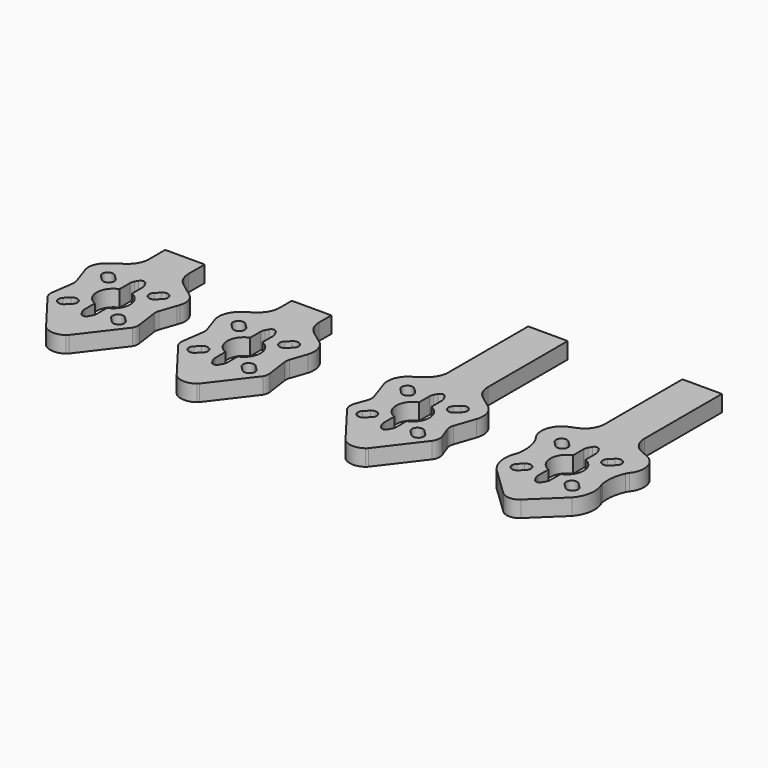
from build123d import *

# Parameters (mm, degrees)
F1_DEPTH = 4


with BuildPart() as f1:
    # F0 (on Top) → F1 (new body)
    with BuildSketch(Plane.XY):
        with BuildLine():
            Line((64.882556, 68.818186), (55.214634, 68.818186))
            Line((55.214634, 68.818186), (55.214634, 45.121402))
            ThreePointArc((55.214634, 45.121402), (54.672991, 42.857986), (53.165413, 41.084955))
            ThreePointArc((53.165413, 41.084955), (51.966639, 40.473517), (50.718245, 39.971096))
            ThreePointArc((50.718245, 39.971096), (47.681562, 36.650176), (48.588941, 32.242613))
            ThreePointArc((48.588941, 32.242613), (48.814657, 31.920656), (48.997803, 31.572718))
            ThreePointArc((48.997803, 31.572718), (49.841079, 28.617078), (49.815432, 25.5436))
            ThreePointArc((49.815432, 25.5436), (49.64528, 24.943847), (49.41752, 24.363519))
            ThreePointArc((49.41752, 24.363519), (49.229677, 20.721931), (50.841472, 17.451066))
            Line((50.841472, 17.451066), (57.888237, 10.705132))
            ThreePointArc((57.888237, 10.705132), (60.048595, 9.837757), (62.208953, 10.705132))
            Line((62.208953, 10.705132), (69.255718, 17.451066))
            ThreePointArc((69.255718, 17.451066), (70.867513, 20.721931), (70.67967, 24.363519))
            ThreePointArc((70.67967, 24.363519), (70.45191, 24.943847), (70.281758, 25.5436))
            ThreePointArc((70.281758, 25.5436), (70.256111, 28.617078), (71.099387, 31.572718))
            ThreePointArc((71.099387, 31.572718), (71.282533, 31.920656), (71.508249, 32.242613))
            ThreePointArc((71.508249, 32.242613), (72.415628, 36.650176), (69.378945, 39.971096))
            ThreePointArc((69.378945, 39.971096), (68.130551, 40.473517), (66.931777, 41.084955))
            ThreePointArc((66.931777, 41.084955), (65.424199, 42.857986), (64.882556, 45.121402))
            Line((64.882556, 45.121402), (64.882556, 68.818186))
        make_face()
        with BuildLine():
            ThreePointArc((53.437147, 22.777158), (55.346335, 22.777158), (55.346335, 20.867969))
            Line((55.346335, 20.867969), (54.285675, 19.807309))
            ThreePointArc((54.285675, 19.807309), (52.376486, 19.807309), (52.376486, 21.716498))
            Line((52.376486, 21.716498), (53.437147, 22.777158))
        make_face(mode=Mode.SUBTRACT)
        with BuildLine():
            Line((65.811515, 19.807309), (64.750855, 20.867969))
            ThreePointArc((64.750855, 20.867969), (64.750855, 22.777158), (66.660043, 22.777158))
            Line((66.660043, 22.777158), (67.720704, 21.716498))
            ThreePointArc((67.720704, 21.716498), (67.720704, 19.807309), (65.811515, 19.807309))
        make_face(mode=Mode.SUBTRACT)
        with BuildLine():
            Line((61.548595, 23.693295), (61.548595, 20.497))
            ThreePointArc((61.548595, 20.497), (61.484809, 19.995925), (61.297519, 19.526812))
            Line((61.297519, 19.526812), (60.860538, 18.739082))
            ThreePointArc((60.860538, 18.739082), (60.048595, 18.260989), (59.236652, 18.739082))
            Line((59.236652, 18.739082), (58.799671, 19.526812))
            ThreePointArc((58.799671, 19.526812), (58.612381, 19.995925), (58.548595, 20.497))
            Line((58.548595, 20.497), (58.548595, 23.693295))
            ThreePointArc((58.548595, 23.693295), (55.97616, 27.479418), (58.548595, 31.265541))
            Line((58.548595, 31.265541), (58.548595, 34.461836))
            ThreePointArc((58.548595, 34.461836), (58.612381, 34.962911), (58.799671, 35.432024))
            Line((58.799671, 35.432024), (59.236652, 36.219754))
            ThreePointArc((59.236652, 36.219754), (60.048595, 36.697847), (60.860538, 36.219754))
            Line((60.860538, 36.219754), (61.297519, 35.432024))
            ThreePointArc((61.297519, 35.432024), (61.484809, 34.962911), (61.548595, 34.461836))
            Line((61.548595, 34.461836), (61.548595, 31.265541))
            ThreePointArc((61.548595, 31.265541), (64.12103, 27.479418), (61.548595, 23.693295))
        make_face(mode=Mode.SUBTRACT)
        with BuildLine():
            ThreePointArc((55.346335, 34.090866), (55.346335, 32.181678), (53.437147, 32.181678))
            Line((53.437147, 32.181678), (52.376486, 33.242338))
            ThreePointArc((52.376486, 33.242338), (52.376486, 35.151526), (54.285675, 35.151526))
            Line((54.285675, 35.151526), (55.346335, 34.090866))
        make_face(mode=Mode.SUBTRACT)
        with BuildLine():
            Line((67.619782, 33.242338), (66.559122, 32.181678))
            ThreePointArc((66.559122, 32.181678), (64.649934, 32.181678), (64.649934, 34.090866))
            Line((64.649934, 34.090866), (65.710594, 35.151526))
            ThreePointArc((65.710594, 35.151526), (67.619782, 35.151526), (67.619782, 33.242338))
        make_face(mode=Mode.SUBTRACT)
        with BuildLine():
            Line((28.204229, 67.509641), (18.536308, 67.509641))
            Line((18.536308, 67.509641), (18.536308, 43.812858))
            Line((18.536308, 43.812858), (18.536308, 43.072832))
            ThreePointArc((18.536308, 43.072832), (17.995472, 40.811006), (16.489965, 39.038491))
            Line((16.489965, 39.038491), (13.236373, 36.656443))
            ThreePointArc((13.236373, 36.656443), (11.839998, 34.229705), (11.967076, 31.432783))
            Line((11.967076, 31.432783), (13.646707, 26.515925))
            ThreePointArc((13.646707, 26.515925), (13.807607, 25.513782), (13.625134, 24.515342))
            Line((13.625134, 24.515342), (12.626619, 21.786198))
            ThreePointArc((12.626619, 21.786198), (12.470211, 20.359497), (12.994444, 19.023413))
            Line((12.994444, 19.023413), (14.391236, 17.191841))
            Line((14.391236, 17.191841), (20.55758, 9.106092))
            ThreePointArc((20.55758, 9.106092), (20.742354, 8.896065), (20.954624, 8.713873))
            ThreePointArc((20.954624, 8.713873), (23.370269, 7.914289), (25.785913, 8.713873))
            ThreePointArc((25.785913, 8.713873), (25.998184, 8.896065), (26.182957, 9.106092))
            Line((26.182957, 9.106092), (33.746093, 19.023413))
            ThreePointArc((33.746093, 19.023413), (34.270326, 20.359497), (34.113918, 21.786198))
            Line((34.113918, 21.786198), (33.115403, 24.515342))
            ThreePointArc((33.115403, 24.515342), (32.93293, 25.513782), (33.09383, 26.515925))
            Line((33.09383, 26.515925), (34.773461, 31.432783))
            ThreePointArc((34.773461, 31.432783), (34.90054, 34.229705), (33.504164, 36.656443))
            Line((33.504164, 36.656443), (30.250572, 39.038491))
            ThreePointArc((30.250572, 39.038491), (28.745065, 40.811006), (28.204229, 43.072832))
            Line((28.204229, 43.072832), (28.204229, 43.812858))
            Line((28.204229, 43.812858), (28.204229, 67.509641))
        make_face()
        with BuildLine():
            ThreePointArc((16.75882, 21.468613), (18.668009, 21.468613), (18.668009, 19.559425))
            Line((18.668009, 19.559425), (17.607348, 18.498765))
            ThreePointArc((17.607348, 18.498765), (15.69816, 18.498765), (15.69816, 20.407953))
            Line((15.69816, 20.407953), (16.75882, 21.468613))
        make_face(mode=Mode.SUBTRACT)
        with BuildLine():
            Line((29.133189, 18.498765), (28.072529, 19.559425))
            ThreePointArc((28.072529, 19.559425), (28.072529, 21.468613), (29.981717, 21.468613))
            Line((29.981717, 21.468613), (31.042377, 20.407953))
            ThreePointArc((31.042377, 20.407953), (31.042377, 18.498765), (29.133189, 18.498765))
        make_face(mode=Mode.SUBTRACT)
        with BuildLine():
            Line((24.870269, 22.38475), (24.870269, 19.188456))
            ThreePointArc((24.870269, 19.188456), (24.806482, 18.687381), (24.619192, 18.218267))
            Line((24.619192, 18.218267), (24.182212, 17.430538))
            ThreePointArc((24.182212, 17.430538), (23.370269, 16.952445), (22.558326, 17.430538))
            Line((22.558326, 17.430538), (22.121345, 18.218267))
            ThreePointArc((22.121345, 18.218267), (21.934055, 18.687381), (21.870269, 19.188456))
            Line((21.870269, 19.188456), (21.870269, 22.38475))
            ThreePointArc((21.870269, 22.38475), (19.297833, 26.170874), (21.870269, 29.956997))
            Line((21.870269, 29.956997), (21.870269, 33.153291))
            ThreePointArc((21.870269, 33.153291), (21.934055, 33.654366), (22.121345, 34.12348))
            Line((22.121345, 34.12348), (22.558326, 34.911209))
            ThreePointArc((22.558326, 34.911209), (23.370269, 35.389302), (24.182212, 34.911209))
            Line((24.182212, 34.911209), (24.619192, 34.12348))
            ThreePointArc((24.619192, 34.12348), (24.806482, 33.654366), (24.870269, 33.153291))
            Line((24.870269, 33.153291), (24.870269, 29.956997))
            ThreePointArc((24.870269, 29.956997), (27.442704, 26.170874), (24.870269, 22.38475))
        make_face(mode=Mode.SUBTRACT)
        with BuildLine():
            ThreePointArc((18.668009, 32.782322), (18.668009, 30.873134), (16.75882, 30.873134))
            Line((16.75882, 30.873134), (15.69816, 31.933794))
            ThreePointArc((15.69816, 31.933794), (15.69816, 33.842982), (17.607348, 33.842982))
            Line((17.607348, 33.842982), (18.668009, 32.782322))
        make_face(mode=Mode.SUBTRACT)
        with BuildLine():
            Line((30.941456, 31.933794), (29.880796, 30.873134))
            ThreePointArc((29.880796, 30.873134), (27.971607, 30.873134), (27.971607, 32.782322))
            Line((27.971607, 32.782322), (29.032268, 33.842982))
            ThreePointArc((29.032268, 33.842982), (30.941456, 33.842982), (30.941456, 31.933794))
        make_face(mode=Mode.SUBTRACT)
        with BuildLine():
            ThreePointArc((-8.590589, 26.868947), (-8.60599, 27.569492), (-8.458463, 28.254501))
            Line((-8.458463, 28.254501), (-7.122784, 32.164492))
            ThreePointArc((-7.122784, 32.164492), (-6.995706, 34.961414), (-8.392081, 37.388152))
            Line((-8.392081, 37.388152), (-11.645673, 39.7702))
            ThreePointArc((-11.645673, 39.7702), (-13.15118, 41.542715), (-13.692016, 43.804541))
            Line((-13.692016, 43.804541), (-13.692016, 44.544566))
            Line((-13.692016, 44.544566), (-13.692016, 47.580231))
            Line((-13.692016, 47.580231), (-23.359937, 47.580231))
            Line((-23.359937, 47.580231), (-23.359937, 44.544566))
            Line((-23.359937, 44.544566), (-23.359937, 43.804541))
            ThreePointArc((-23.359937, 43.804541), (-23.900773, 41.542715), (-25.40628, 39.7702))
            Line((-25.40628, 39.7702), (-28.659872, 37.388152))
            ThreePointArc((-28.659872, 37.388152), (-30.056248, 34.961414), (-29.929169, 32.164492))
            Line((-29.929169, 32.164492), (-28.593491, 28.254501))
            ThreePointArc((-28.593491, 28.254501), (-28.445964, 27.569492), (-28.461365, 26.868947))
            Line((-28.461365, 26.868947), (-29.20631, 21.545488))
            ThreePointArc((-29.20631, 21.545488), (-29.192786, 20.62671), (-28.901801, 19.755122))
            Line((-28.901801, 19.755122), (-27.50501, 17.92355))
            Line((-27.50501, 17.92355), (-21.338665, 9.837801))
            ThreePointArc((-21.338665, 9.837801), (-21.153892, 9.627774), (-20.941622, 9.445582))
            ThreePointArc((-20.941622, 9.445582), (-18.525977, 8.645998), (-16.110332, 9.445582))
            ThreePointArc((-16.110332, 9.445582), (-15.898062, 9.627774), (-15.713288, 9.837801))
            Line((-15.713288, 9.837801), (-8.150152, 19.755122))
            ThreePointArc((-8.150152, 19.755122), (-7.859168, 20.62671), (-7.845644, 21.545488))
            Line((-7.845644, 21.545488), (-8.590589, 26.868947))
        make_face()
        with BuildLine():
            ThreePointArc((-25.137425, 22.200322), (-23.228237, 22.200322), (-23.228237, 20.291134))
            Line((-23.228237, 20.291134), (-24.288897, 19.230474))
            ThreePointArc((-24.288897, 19.230474), (-26.198085, 19.230474), (-26.198085, 21.139662))
            Line((-26.198085, 21.139662), (-25.137425, 22.200322))
        make_face(mode=Mode.SUBTRACT)
        with BuildLine():
            Line((-12.763057, 19.230474), (-13.823717, 20.291134))
            ThreePointArc((-13.823717, 20.291134), (-13.823717, 22.200322), (-11.914528, 22.200322))
            Line((-11.914528, 22.200322), (-10.853868, 21.139662))
            ThreePointArc((-10.853868, 21.139662), (-10.853868, 19.230474), (-12.763057, 19.230474))
        make_face(mode=Mode.SUBTRACT)
        with BuildLine():
            Line((-17.025977, 23.116459), (-17.025977, 19.920165))
            ThreePointArc((-17.025977, 19.920165), (-17.089763, 19.41909), (-17.277053, 18.949976))
            Line((-17.277053, 18.949976), (-17.714034, 18.162247))
            ThreePointArc((-17.714034, 18.162247), (-18.525977, 17.684154), (-19.33792, 18.162247))
            Line((-19.33792, 18.162247), (-19.774901, 18.949976))
            ThreePointArc((-19.774901, 18.949976), (-19.962191, 19.41909), (-20.025977, 19.920165))
            Line((-20.025977, 19.920165), (-20.025977, 23.116459))
            ThreePointArc((-20.025977, 23.116459), (-22.598412, 26.902582), (-20.025977, 30.688706))
            Line((-20.025977, 30.688706), (-20.025977, 33.885))
            ThreePointArc((-20.025977, 33.885), (-19.962191, 34.386075), (-19.774901, 34.855188))
            Line((-19.774901, 34.855188), (-19.33792, 35.642918))
            ThreePointArc((-19.33792, 35.642918), (-18.525977, 36.121011), (-17.714034, 35.642918))
            Line((-17.714034, 35.642918), (-17.277053, 34.855188))
            ThreePointArc((-17.277053, 34.855188), (-17.089763, 34.386075), (-17.025977, 33.885))
            Line((-17.025977, 33.885), (-17.025977, 30.688706))
            ThreePointArc((-17.025977, 30.688706), (-14.453542, 26.902582), (-17.025977, 23.116459))
        make_face(mode=Mode.SUBTRACT)
        with BuildLine():
            ThreePointArc((-23.228237, 33.514031), (-23.228237, 31.604842), (-25.137425, 31.604842))
            Line((-25.137425, 31.604842), (-26.198085, 32.665503))
            ThreePointArc((-26.198085, 32.665503), (-26.198085, 34.574691), (-24.288897, 34.574691))
            Line((-24.288897, 34.574691), (-23.228237, 33.514031))
        make_face(mode=Mode.SUBTRACT)
        with BuildLine():
            Line((-10.954789, 32.665503), (-12.01545, 31.604842))
            ThreePointArc((-12.01545, 31.604842), (-13.924638, 31.604842), (-13.924638, 33.514031))
            Line((-13.924638, 33.514031), (-12.863978, 34.574691))
            ThreePointArc((-12.863978, 34.574691), (-10.954789, 34.574691), (-10.954789, 32.665503))
        make_face(mode=Mode.SUBTRACT)
        with BuildLine():
            ThreePointArc((-40.631176, 26.975652), (-40.646576, 27.676197), (-40.49905, 28.361205))
            Line((-40.49905, 28.361205), (-39.163371, 32.271196))
            Line((-39.163371, 32.271196), (-38.945198, 32.909864))
            ThreePointArc((-38.945198, 32.909864), (-38.984997, 35.607103), (-40.728191, 37.665732))
            Line((-40.728191, 37.665732), (-43.68626, 39.876905))
            ThreePointArc((-43.68626, 39.876905), (-45.191767, 41.64942), (-45.732603, 43.911246))
            Line((-45.732603, 43.911246), (-45.732603, 44.651271))
            Line((-45.732603, 44.651271), (-45.732603, 48.90136))
            Line((-45.732603, 48.90136), (-55.400524, 48.90136))
            Line((-55.400524, 48.90136), (-55.400524, 44.651271))
            Line((-55.400524, 44.651271), (-55.400524, 43.911246))
            ThreePointArc((-55.400524, 43.911246), (-55.94136, 41.64942), (-57.446867, 39.876905))
            Line((-57.446867, 39.876905), (-60.404936, 37.665732))
            ThreePointArc((-60.404936, 37.665732), (-62.148131, 35.607103), (-62.187929, 32.909864))
            Line((-62.187929, 32.909864), (-61.969756, 32.271196))
            Line((-61.969756, 32.271196), (-60.634078, 28.361205))
            ThreePointArc((-60.634078, 28.361205), (-60.486551, 27.676197), (-60.501952, 26.975652))
            Line((-60.501952, 26.975652), (-61.246896, 21.652193))
            ThreePointArc((-61.246896, 21.652193), (-61.233373, 20.733414), (-60.942388, 19.861827))
            Line((-60.942388, 19.861827), (-59.545596, 18.030254))
            Line((-59.545596, 18.030254), (-53.379252, 9.944506))
            ThreePointArc((-53.379252, 9.944506), (-53.194479, 9.734479), (-52.982208, 9.552287))
            ThreePointArc((-52.982208, 9.552287), (-50.566564, 8.752702), (-48.150919, 9.552287))
            ThreePointArc((-48.150919, 9.552287), (-47.938649, 9.734479), (-47.753875, 9.944506))
            Line((-47.753875, 9.944506), (-40.190739, 19.861827))
            ThreePointArc((-40.190739, 19.861827), (-39.899754, 20.733414), (-39.886231, 21.652193))
            Line((-39.886231, 21.652193), (-40.631176, 26.975652))
        make_face()
        with BuildLine():
            ThreePointArc((-57.178012, 22.307027), (-55.268824, 22.307027), (-55.268824, 20.397839))
            Line((-55.268824, 20.397839), (-56.329484, 19.337179))
            ThreePointArc((-56.329484, 19.337179), (-58.238672, 19.337179), (-58.238672, 21.246367))
            Line((-58.238672, 21.246367), (-57.178012, 22.307027))
        make_face(mode=Mode.SUBTRACT)
        with BuildLine():
            Line((-44.803643, 19.337179), (-45.864304, 20.397839))
            ThreePointArc((-45.864304, 20.397839), (-45.864304, 22.307027), (-43.955115, 22.307027))
            Line((-43.955115, 22.307027), (-42.894455, 21.246367))
            ThreePointArc((-42.894455, 21.246367), (-42.894455, 19.337179), (-44.803643, 19.337179))
        make_face(mode=Mode.SUBTRACT)
        with BuildLine():
            Line((-49.066564, 23.223164), (-49.066564, 20.026869))
            ThreePointArc((-49.066564, 20.026869), (-49.13035, 19.525794), (-49.31764, 19.056681))
            Line((-49.31764, 19.056681), (-49.754621, 18.268951))
            ThreePointArc((-49.754621, 18.268951), (-50.566564, 17.790858), (-51.378507, 18.268951))
            Line((-51.378507, 18.268951), (-51.815487, 19.056681))
            ThreePointArc((-51.815487, 19.056681), (-52.002777, 19.525794), (-52.066564, 20.026869))
            Line((-52.066564, 20.026869), (-52.066564, 23.223164))
            ThreePointArc((-52.066564, 23.223164), (-54.638999, 27.009287), (-52.066564, 30.79541))
            Line((-52.066564, 30.79541), (-52.066564, 33.991705))
            ThreePointArc((-52.066564, 33.991705), (-52.002777, 34.49278), (-51.815487, 34.961893))
            Line((-51.815487, 34.961893), (-51.378507, 35.749623))
            ThreePointArc((-51.378507, 35.749623), (-50.566564, 36.227716), (-49.754621, 35.749623))
            Line((-49.754621, 35.749623), (-49.31764, 34.961893))
            ThreePointArc((-49.31764, 34.961893), (-49.13035, 34.49278), (-49.066564, 33.991705))
            Line((-49.066564, 33.991705), (-49.066564, 30.79541))
            ThreePointArc((-49.066564, 30.79541), (-46.494128, 27.009287), (-49.066564, 23.223164))
        make_face(mode=Mode.SUBTRACT)
        with BuildLine():
            ThreePointArc((-55.268824, 33.620736), (-55.268824, 31.711547), (-57.178012, 31.711547))
            Line((-57.178012, 31.711547), (-58.238672, 32.772207))
            ThreePointArc((-58.238672, 32.772207), (-58.238672, 34.681396), (-56.329484, 34.681396))
            Line((-56.329484, 34.681396), (-55.268824, 33.620736))
        make_face(mode=Mode.SUBTRACT)
        with BuildLine():
            Line((-42.995376, 32.772207), (-44.056036, 31.711547))
            ThreePointArc((-44.056036, 31.711547), (-45.965225, 31.711547), (-45.965225, 33.620736))
            Line((-45.965225, 33.620736), (-44.904565, 34.681396))
            ThreePointArc((-44.904565, 34.681396), (-42.995376, 34.681396), (-42.995376, 32.772207))
        make_face(mode=Mode.SUBTRACT)
    extrude(amount=F1_DEPTH)


solid = f1.part
